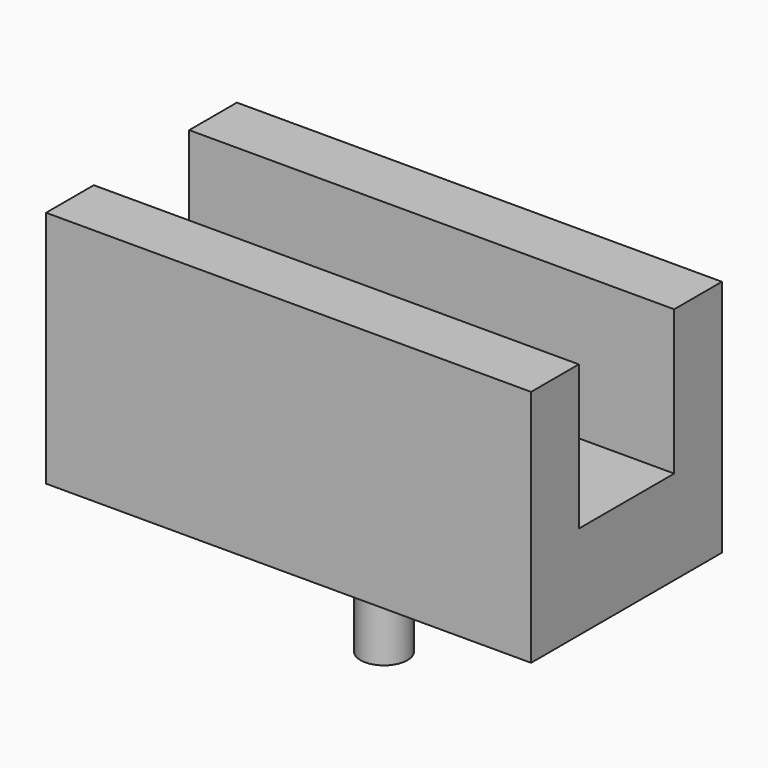
from build123d import *

# Parameters (mm, degrees)
F0_W     = 103.285306
F0_H     = 12.7
F1_DEPTH = 50.8
F0_H_2   = 25.4
F2_DEPTH = 20
F3_R     = 5
F4_DEPTH = 25


with BuildPart() as f1:
    # F0 (on Top) → F1 (new body)
    with BuildSketch(Plane.XY):
        with Locations((0, 19.05)):
            Rectangle(F0_W, F0_H)
        with Locations((0, -19.05)):
            Rectangle(F0_W, F0_H)
    extrude(amount=F1_DEPTH)

    # F0 (on Top) → F2 (join)
    with BuildSketch(Plane.XY):
        Rectangle(F0_W, F0_H_2)
    extrude(amount=F2_DEPTH)

    # F3 (on face) → F4 (join)
    with BuildSketch(Plane.XY):
        Circle(F3_R)
    extrude(amount=-F4_DEPTH)


solid = f1.part
